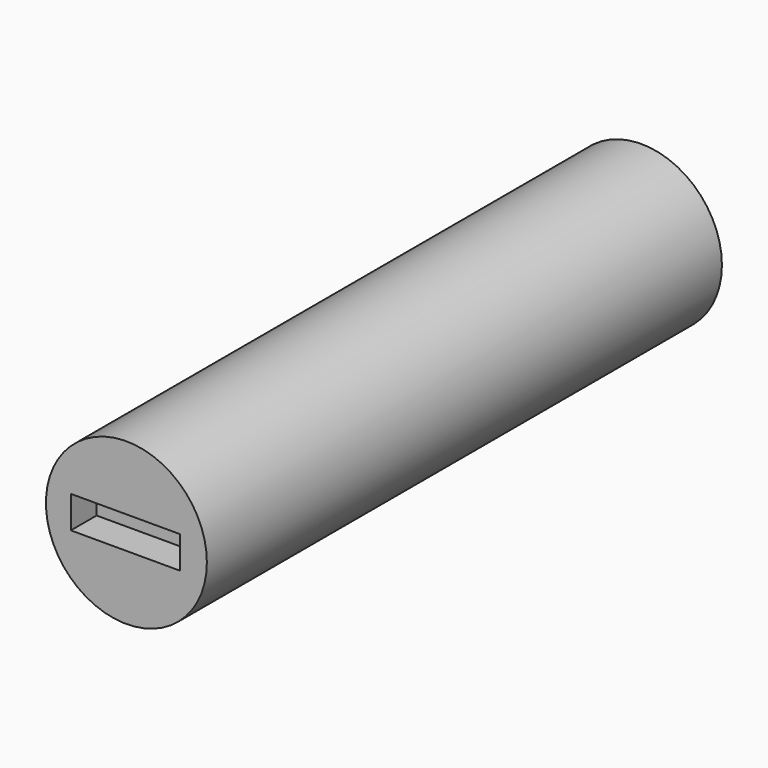
from build123d import *

# Parameters (mm, degrees)
F0_R     = 2.5
F1_DEPTH = 20
F2_W     = 3.388507
F2_H     = 1
F3_DEPTH = 1


with BuildPart() as f1:
    # F0 (on Front) → F1 (new body)
    with BuildSketch(Plane.XZ):
        Circle(F0_R)
    extrude(amount=F1_DEPTH)

    # F2 (on face) → F3 (cut)
    with BuildSketch(Plane.XZ.offset(20)):
        with Locations((-0.031836, 0)):
            Rectangle(F2_W, F2_H)
    extrude(amount=-F3_DEPTH, mode=Mode.SUBTRACT)


solid = f1.part
